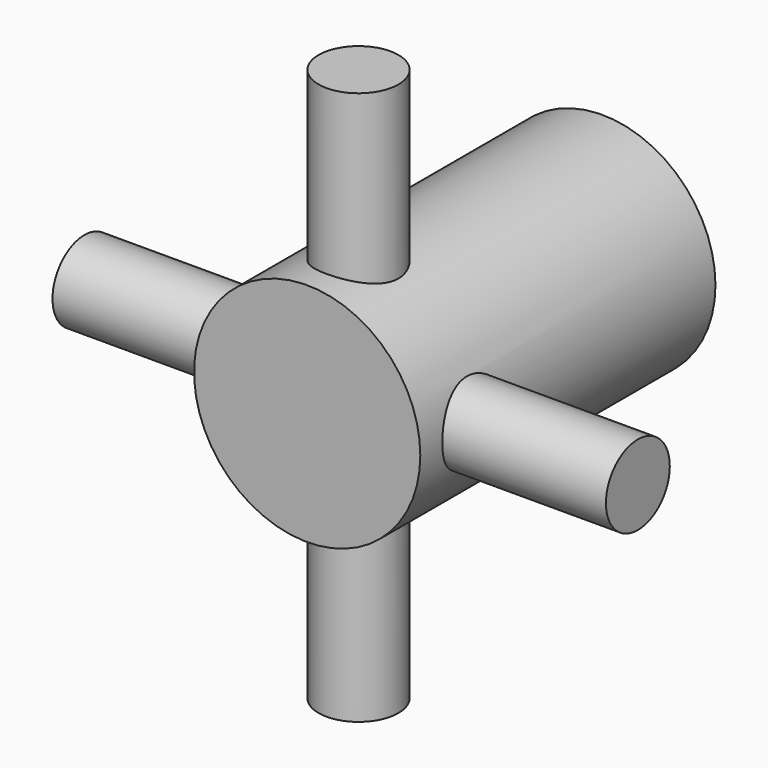
from build123d import *

# Parameters (mm, degrees)
F0_R     = 31.1531
F1_DEPTH = 50.8
F2_R     = 10.9982
F4_DEPTH = 76.2
F3_R     = 10.9982
F5_DEPTH = 76.2


with BuildPart() as f1:
    # F0 (on Front) → F1 (new body, symmetric)
    with BuildSketch(Plane.XZ):
        Circle(F0_R)
    extrude(amount=F1_DEPTH, both=True)

    # F2 (on Right) → F4 (join, symmetric)
    with BuildSketch(Plane.YZ):
        with Locations((-32.224476, 0)):
            Circle(F2_R)
    extrude(amount=F4_DEPTH, both=True)

    # F3 (on Top) → F5 (join, symmetric)
    with BuildSketch(Plane.XY):
        with Locations((0, -33.121577)):
            Circle(F3_R)
    extrude(amount=F5_DEPTH, both=True)


solid = f1.part
